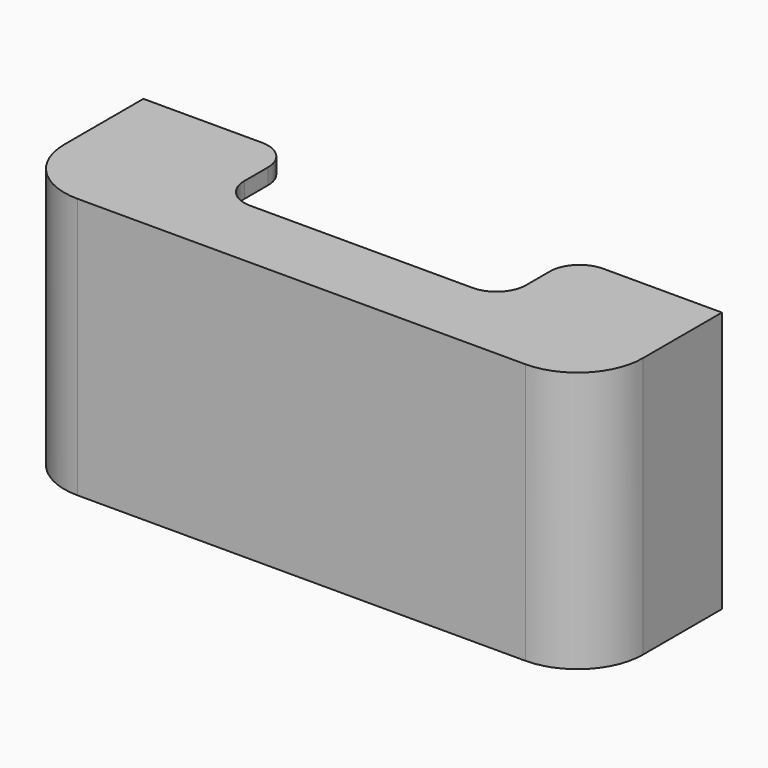
from build123d import *

# Parameters (mm, degrees)
F1_DEPTH = 26.4
F2_R     = 6.6
F3_T     = -1.6
F4_W     = 28.5
F4_H     = 9
F5_DEPTH = 26.401
F6_R     = 3


with BuildPart() as f1:
    # F0 (on Top) → F1 (new body)
    with BuildSketch(Plane.XY):
        Polygon((29.25, 7.5), (27.65, 7.5), (-27.65, 7.5), (-29.25, 7.5), (-29.25, -9.1), (29.25, -9.1), align=None)
    extrude(amount=F1_DEPTH)

    # F2
    f2_edges = [f1.edges().sort_by_distance(p)[0] for p in [
        (29.25, -9.1, 13.2),
        (-29.25, -9.1, 13.2),
    ]]
    fillet(f2_edges, radius=F2_R)

    # F3
    f3_openings = [f1.faces().sort_by_distance(p)[0] for p in [
        (0, 7.5, 13.2),
    ]]
    offset(amount=F3_T, openings=f3_openings)

    # F4 (on face) → F5 (cut, through all)
    with BuildSketch(Plane.XY.offset(26.4)):
        with Locations((0, 3)):
            Rectangle(F4_W, F4_H)
    extrude(amount=-F5_DEPTH, mode=Mode.SUBTRACT)

    # F6
    f6_edges = [f1.edges().sort_by_distance(p)[0] for p in [
        (14.25, -1.5, 25.6),
        (14.25, 7.5, 25.6),
        (14.25, 7.5, 0.8),
        (14.25, -1.5, 0.8),
        (-14.25, 7.5, 25.6),
        (-14.25, 7.5, 0.8),
        (-14.25, -1.5, 0.8),
        (-14.25, -1.5, 25.6),
    ]]
    fillet(f6_edges, radius=F6_R)


solid = f1.part
